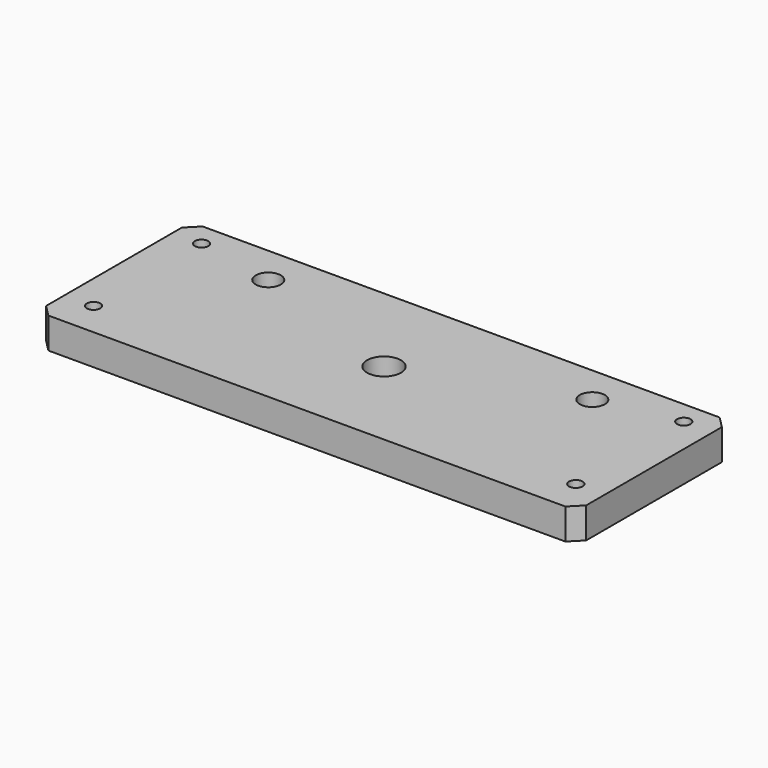
from build123d import *

# Parameters (mm, degrees)
F0_W     = 140
F0_H     = 50
F0_R     = 1.75
F0_R_2   = 3.25
F0_R_3   = 2.5
F1_DEPTH = 8
F2_SIZE  = 3
F4_D     = 8.8


with BuildPart() as f1:
    # F0 (on Top) → F1 (new body)
    with BuildSketch(Plane.XY):
        Rectangle(F0_W, F0_H)
        with Locations((-62.4999959502, -16.0005345571)):
            Circle(F0_R, mode=Mode.SUBTRACT)
        with Locations((62.5, -15.968715623)):
            Circle(F0_R, mode=Mode.SUBTRACT)
        with Locations((-42, 15)):
            Circle(F0_R_2, mode=Mode.SUBTRACT)
        with Locations((-62.4999959502, 18.9994654429)):
            Circle(F0_R, mode=Mode.SUBTRACT)
        Circle(F0_R_3, mode=Mode.SUBTRACT)
        with Locations((42, 15)):
            Circle(F0_R_2, mode=Mode.SUBTRACT)
        with Locations((62.5, 19.031284377)):
            Circle(F0_R, mode=Mode.SUBTRACT)
    extrude(amount=F1_DEPTH)

    # F2
    f2_edges = [f1.edges().sort_by_distance(p)[0] for p in [
        (-70, -25, 4),
        (70, -25, 4),
        (70, 25, 4),
        (-70, 25, 4),
    ]]
    chamfer(f2_edges, length=F2_SIZE)

    # F4 (through all)
    with Locations(Plane.XY.offset(8)):
        with Locations((0, 0)):
            Hole(F4_D / 2)


solid = f1.part
